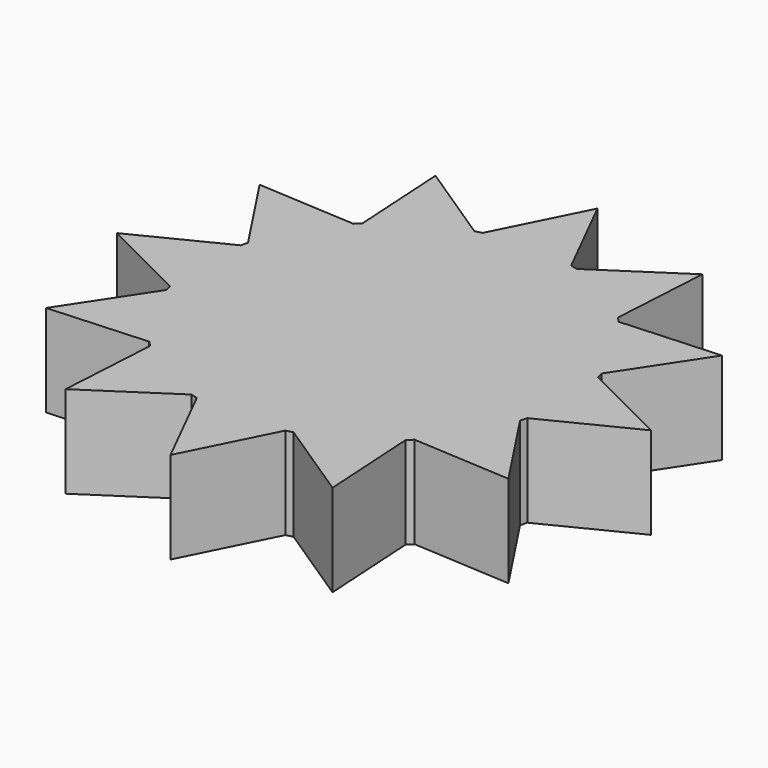
from build123d import *

# Parameters (mm, degrees)
F1_DEPTH = 25.4


with BuildPart() as f1:
    # F0 (on Top) → F1 (new body)
    with BuildSketch(Plane.XY):
        with BuildLine():
            ThreePointArc((49.313544, -12.198952), (50.427017, -6.144591), (50.8, 0))
            ThreePointArc((50.8, 0), (50.427017, 6.144591), (49.313544, 12.198952))
            ThreePointArc((49.313544, 12.198952), (49.069032, 13.148007), (48.806257, 14.09217))
            ThreePointArc((48.806257, 14.09217), (43.994091, 25.4), (36.607305, 35.221374))
            ThreePointArc((36.607305, 35.221374), (35.921024, 35.921024), (35.221374, 36.607305))
            ThreePointArc((35.221374, 36.607305), (25.4, 43.994091), (14.09217, 48.806257))
            ThreePointArc((14.09217, 48.806257), (13.148007, 49.069032), (12.198952, 49.313544))
            ThreePointArc((12.198952, 49.313544), (0, 50.8), (-12.198952, 49.313544))
            ThreePointArc((-12.198952, 49.313544), (-13.148007, 49.069032), (-14.09217, 48.806257))
            ThreePointArc((-14.09217, 48.806257), (-25.4, 43.994091), (-35.221374, 36.607305))
            ThreePointArc((-35.221374, 36.607305), (-35.921024, 35.921024), (-36.607305, 35.221374))
            ThreePointArc((-36.607305, 35.221374), (-43.994091, 25.4), (-48.806257, 14.09217))
            ThreePointArc((-48.806257, 14.09217), (-49.069032, 13.148007), (-49.313544, 12.198952))
            ThreePointArc((-49.313544, 12.198952), (-50.8, 0), (-49.313544, -12.198952))
            ThreePointArc((-49.313544, -12.198952), (-49.069032, -13.148007), (-48.806257, -14.09217))
            ThreePointArc((-48.806257, -14.09217), (-43.994091, -25.4), (-36.607305, -35.221374))
            ThreePointArc((-36.607305, -35.221374), (-35.921024, -35.921024), (-35.221374, -36.607305))
            ThreePointArc((-35.221374, -36.607305), (-25.4, -43.994091), (-14.09217, -48.806257))
            ThreePointArc((-14.09217, -48.806257), (-13.148007, -49.069032), (-12.198952, -49.313544))
            ThreePointArc((-12.198952, -49.313544), (0, -50.8), (12.198952, -49.313544))
            ThreePointArc((12.198952, -49.313544), (13.148007, -49.069032), (14.09217, -48.806257))
            ThreePointArc((14.09217, -48.806257), (25.4, -43.994091), (35.221374, -36.607305))
            ThreePointArc((35.221374, -36.607305), (35.921024, -35.921024), (36.607305, -35.221374))
            ThreePointArc((36.607305, -35.221374), (43.994091, -25.4), (48.806257, -14.09217))
            ThreePointArc((48.806257, -14.09217), (49.069032, -13.148007), (49.313544, -12.198952))
        make_face()
        with BuildLine():
            ThreePointArc((49.313544, 12.198952), (50.427017, 6.144591), (50.8, 0))
            ThreePointArc((50.8, 0), (50.427017, -6.144591), (49.313544, -12.198952))
            Line((49.313544, -12.198952), (73.66, 0))
            Line((73.66, 0), (49.313544, 12.198952))
        make_face()
        with BuildLine():
            ThreePointArc((36.607305, 35.221374), (43.994091, 25.4), (48.806257, 14.09217))
            Line((48.806257, 14.09217), (63.791431, 36.83))
            Line((63.791431, 36.83), (36.607305, 35.221374))
        make_face()
        with BuildLine():
            Line((63.791431, -36.83), (48.806257, -14.09217))
            ThreePointArc((48.806257, -14.09217), (43.994091, -25.4), (36.607305, -35.221374))
            Line((36.607305, -35.221374), (63.791431, -36.83))
        make_face()
        with BuildLine():
            ThreePointArc((14.09217, 48.806257), (25.4, 43.994091), (35.221374, 36.607305))
            Line((35.221374, 36.607305), (36.83, 63.791431))
            Line((36.83, 63.791431), (14.09217, 48.806257))
        make_face()
        with BuildLine():
            Line((36.83, -63.791431), (35.221374, -36.607305))
            ThreePointArc((35.221374, -36.607305), (25.4, -43.994091), (14.09217, -48.806257))
            Line((14.09217, -48.806257), (36.83, -63.791431))
        make_face()
        with BuildLine():
            ThreePointArc((-12.198952, 49.313544), (0, 50.8), (12.198952, 49.313544))
            Line((12.198952, 49.313544), (0, 73.66))
            Line((0, 73.66), (-12.198952, 49.313544))
        make_face()
        with BuildLine():
            Line((0, -73.66), (12.198952, -49.313544))
            ThreePointArc((12.198952, -49.313544), (0, -50.8), (-12.198952, -49.313544))
            Line((-12.198952, -49.313544), (0, -73.66))
        make_face()
        with BuildLine():
            ThreePointArc((-35.221374, 36.607305), (-25.4, 43.994091), (-14.09217, 48.806257))
            Line((-14.09217, 48.806257), (-36.83, 63.791431))
            Line((-36.83, 63.791431), (-35.221374, 36.607305))
        make_face()
        with BuildLine():
            Line((-36.83, -63.791431), (-14.09217, -48.806257))
            ThreePointArc((-14.09217, -48.806257), (-25.4, -43.994091), (-35.221374, -36.607305))
            Line((-35.221374, -36.607305), (-36.83, -63.791431))
        make_face()
        with BuildLine():
            ThreePointArc((-48.806257, 14.09217), (-43.994091, 25.4), (-36.607305, 35.221374))
            Line((-36.607305, 35.221374), (-63.791431, 36.83))
            Line((-63.791431, 36.83), (-48.806257, 14.09217))
        make_face()
        with BuildLine():
            Line((-63.791431, -36.83), (-36.607305, -35.221374))
            ThreePointArc((-36.607305, -35.221374), (-43.994091, -25.4), (-48.806257, -14.09217))
            Line((-48.806257, -14.09217), (-63.791431, -36.83))
        make_face()
        with BuildLine():
            ThreePointArc((-49.313544, -12.198952), (-50.8, 0), (-49.313544, 12.198952))
            Line((-49.313544, 12.198952), (-73.66, 0))
            Line((-73.66, 0), (-49.313544, -12.198952))
        make_face()
    extrude(amount=F1_DEPTH)


solid = f1.part
